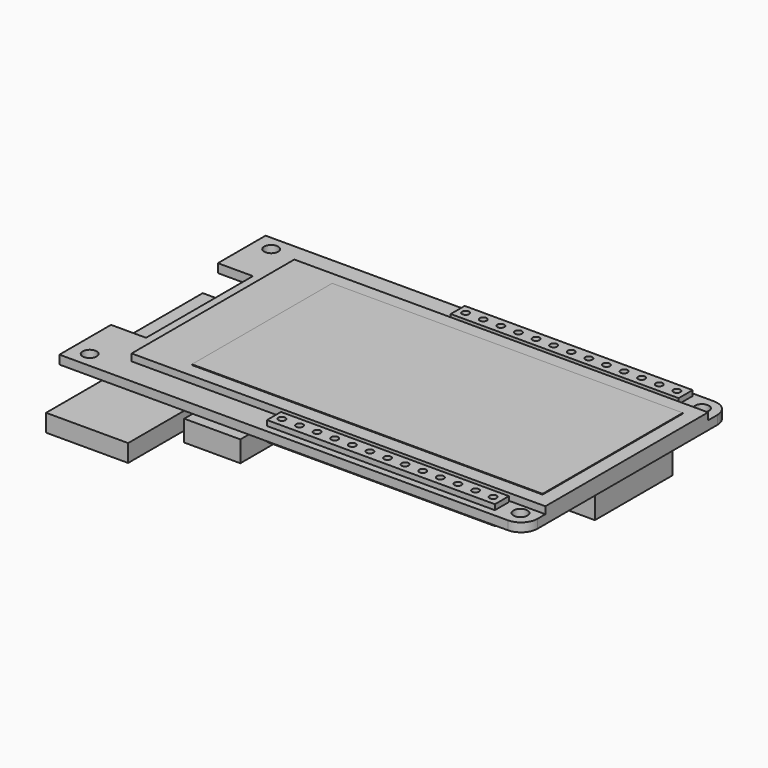
from build123d import *

# Parameters (mm, degrees)
SKETCH_R          = 1
PAD_DEPTH         = 1.25
SKETCH001_W       = 59
SKETCH001_H       = 29
PAD001_DEPTH      = 1
SKETCH002_W       = 50
SKETCH002_H       = 25
PAD002_DEPTH      = 0.1
SKETCH003_W       = 32.5
SKETCH003_H       = 2.5
SKETCH003_R       = 0.5
PAD003_DEPTH      = 0.75
PAD003_DEPTH_BACK = 2
SKETCH004_W       = 11.7
SKETCH004_H       = 15.5
PAD004_DEPTH      = 2.5
SKETCH005_W       = 8
SKETCH005_H       = 5.7
PAD005_DEPTH      = 3
SKETCH006_W       = 5.3
SKETCH006_H       = 13.8
PAD006_DEPTH      = 3.5
SKETCH007_W       = 3
SKETCH007_H       = 3
SKETCH007_R       = 1
PAD007_DEPTH      = 1.5
PAD008_DEPTH      = 2
SKETCH009_W       = 9
SKETCH009_H       = 3.2
PAD009_DEPTH      = 3
SKETCH010_W       = 4
SKETCH010_H       = 1.5
POCKET_DEPTH      = 0.25
SKETCH011_W       = 1.5
SKETCH011_H       = 1.5
PAD010_DEPTH      = 2.25
SKETCH012_W       = 4.5
SKETCH012_H       = 17.6
PAD011_DEPTH      = 2.3
SKETCH013_W       = 12.4
SKETCH013_H       = 0.5
PAD012_DEPTH      = 4.5
PAD013_DEPTH      = 3.5


with BuildPart() as part:
    # Sketch → Pad (new body)
    with BuildSketch(Plane.XY):
        with BuildLine():
            Line((-35.65, 18.375), (28.3, 18.375))
            ThreePointArc((30.65, 16.025), (29.961701, 17.686701), (28.3, 18.375))
            Line((30.65, 16.025), (30.65, -16.025))
            ThreePointArc((28.3, -18.375), (29.961701, -17.686701), (30.65, -16.025))
            Line((28.3, -18.375), (-35.65, -18.375))
            Line((-35.65, -18.375), (-35.65, -9.175))
            Line((-30.65, -9.175), (-35.65, -9.175))
            Line((-30.65, 9.875), (-30.65, -9.175))
            Line((-35.65, 9.875), (-30.65, 9.875))
            Line((-35.65, 9.875), (-35.65, 18.375))
        make_face()
        with Locations((-33.13, 16.225)):
            Circle(SKETCH_R, mode=Mode.SUBTRACT)
        with Locations((-33.13, -16.125)):
            Circle(SKETCH_R, mode=Mode.SUBTRACT)
        with Locations((28.3, 16.225)):
            Circle(SKETCH_R, mode=Mode.SUBTRACT)
        with Locations((28.3, -16.125)):
            Circle(SKETCH_R, mode=Mode.SUBTRACT)
    extrude(amount=PAD_DEPTH)

    # Sketch001 (on Face16 of Pad) → Pad001 (join)
    with BuildSketch(Plane.XY.offset(1.25)):
        with Locations((1.15, -0.125)):
            Rectangle(SKETCH001_W, SKETCH001_H)
    extrude(amount=PAD001_DEPTH)

    # Sketch002 (on Face21 of Pad001) → Pad002 (join)
    with BuildSketch(Plane.XY.offset(2.25)):
        with Locations((3.65, -0.125)):
            Rectangle(SKETCH002_W, SKETCH002_H)
    extrude(amount=PAD002_DEPTH)

    # Sketch003 (on Face5 of Pad002) → Pad003 (join, two sides)
    with BuildSketch(Plane.XY.offset(1.25)) as pad003_sk:
        with Locations((9.4, 16.625)):
            Rectangle(SKETCH003_W, SKETCH003_H)
        with Locations((24.4, 16.625)):
            Circle(SKETCH003_R, mode=Mode.SUBTRACT)
        with Locations((21.89, 16.625)):
            Circle(SKETCH003_R, mode=Mode.SUBTRACT)
        with Locations((19.38, 16.625)):
            Circle(SKETCH003_R, mode=Mode.SUBTRACT)
        with Locations((16.87, 16.625)):
            Circle(SKETCH003_R, mode=Mode.SUBTRACT)
        with Locations((14.36, 16.625)):
            Circle(SKETCH003_R, mode=Mode.SUBTRACT)
        with Locations((11.85, 16.625)):
            Circle(SKETCH003_R, mode=Mode.SUBTRACT)
        with Locations((9.34, 16.625)):
            Circle(SKETCH003_R, mode=Mode.SUBTRACT)
        with Locations((6.83, 16.625)):
            Circle(SKETCH003_R, mode=Mode.SUBTRACT)
        with Locations((4.32, 16.625)):
            Circle(SKETCH003_R, mode=Mode.SUBTRACT)
        with Locations((1.81, 16.625)):
            Circle(SKETCH003_R, mode=Mode.SUBTRACT)
        with Locations((-0.7, 16.625)):
            Circle(SKETCH003_R, mode=Mode.SUBTRACT)
        with Locations((-3.21, 16.625)):
            Circle(SKETCH003_R, mode=Mode.SUBTRACT)
        with Locations((-5.72, 16.625)):
            Circle(SKETCH003_R, mode=Mode.SUBTRACT)
        with Locations((9.4, -16.125)):
            Rectangle(SKETCH003_W, SKETCH003_H)
        with Locations((24.4, -16.125)):
            Circle(SKETCH003_R, mode=Mode.SUBTRACT)
        with Locations((21.89, -16.125)):
            Circle(SKETCH003_R, mode=Mode.SUBTRACT)
        with Locations((19.38, -16.125)):
            Circle(SKETCH003_R, mode=Mode.SUBTRACT)
        with Locations((16.87, -16.125)):
            Circle(SKETCH003_R, mode=Mode.SUBTRACT)
        with Locations((14.36, -16.125)):
            Circle(SKETCH003_R, mode=Mode.SUBTRACT)
        with Locations((11.85, -16.125)):
            Circle(SKETCH003_R, mode=Mode.SUBTRACT)
        with Locations((9.34, -16.125)):
            Circle(SKETCH003_R, mode=Mode.SUBTRACT)
        with Locations((6.83, -16.125)):
            Circle(SKETCH003_R, mode=Mode.SUBTRACT)
        with Locations((4.32, -16.125)):
            Circle(SKETCH003_R, mode=Mode.SUBTRACT)
        with Locations((1.81, -16.125)):
            Circle(SKETCH003_R, mode=Mode.SUBTRACT)
        with Locations((-0.7, -16.125)):
            Circle(SKETCH003_R, mode=Mode.SUBTRACT)
        with Locations((-3.21, -16.125)):
            Circle(SKETCH003_R, mode=Mode.SUBTRACT)
        with Locations((-5.72, -16.125)):
            Circle(SKETCH003_R, mode=Mode.SUBTRACT)
    extrude(amount=PAD003_DEPTH)
    extrude(pad003_sk.sketch, amount=-PAD003_DEPTH_BACK)

    # Sketch004 (on Face4 of Pad003) → Pad004 (join)
    with BuildSketch(Plane(origin=(0, 0, 0), x_dir=(1, 0, 0), z_dir=(0, 0, -1))):
        with Locations((-23.7, 20.625)):
            Rectangle(SKETCH004_W, SKETCH004_H)
    extrude(amount=PAD004_DEPTH)

    # Sketch005 (on Face4 of Pad004) → Pad005 (join)
    with BuildSketch(Plane(origin=(0, 0, 0), x_dir=(1, 0, 0), z_dir=(0, 0, -1))):
        with Locations((-12.65, 17.025)):
            Rectangle(SKETCH005_W, SKETCH005_H)
    extrude(amount=PAD005_DEPTH)

    # Sketch006 (on Face4 of Pad005) → Pad006 (join)
    with BuildSketch(Plane(origin=(0, 0, 0), x_dir=(1, 0, 0), z_dir=(0, 0, -1))):
        with Locations((27.5, -1.725)):
            Rectangle(SKETCH006_W, SKETCH006_H)
    extrude(amount=PAD006_DEPTH)

    # Sketch007 (on Face4 of Pad006) → Pad007 (join)
    with BuildSketch(Plane(origin=(0, 0, 0), x_dir=(1, 0, 0), z_dir=(0, 0, -1))):
        with Locations((22.25, -12.775)):
            Rectangle(SKETCH007_W, SKETCH007_H)
        with Locations((22.25, -12.775)):
            Circle(SKETCH007_R, mode=Mode.SUBTRACT)
    extrude(amount=PAD007_DEPTH)

    # Sketch008 (on Face4 of Pad007) → Pad008 (join)
    with BuildSketch(Plane(origin=(0, 0, 0), x_dir=(1, 0, 0), z_dir=(0, 0, -1))):
        Polygon((-28.85, -16.175), (-24.35, -16.175), (-24.35, -18.375), (-25.6, -18.375), (-25.6, -19.375), (-27.6, -19.375), (-27.6, -18.375), (-28.85, -18.375), align=None)
        Polygon((-22.05, -16.175), (-17.55, -16.175), (-17.55, -18.375), (-18.8, -18.375), (-18.8, -19.375), (-20.8, -19.375), (-20.8, -18.375), (-22.05, -18.375), align=None)
    extrude(amount=PAD008_DEPTH)

    # Sketch009 (on Face4 of Pad008) → Pad009 (join)
    with BuildSketch(Plane(origin=(0, 0, 0), x_dir=(1, 0, 0), z_dir=(0, 0, -1))):
        with Locations((-12.15, -16.775)):
            Rectangle(SKETCH009_W, SKETCH009_H)
    extrude(amount=PAD009_DEPTH)

    # Sketch010 (on Face14 of Pad009) → Pocket (cut)
    with BuildSketch(Plane(origin=(0, 18.375, 0), x_dir=(-1, 0, 0), z_dir=(0, 1, 0))):
        with Locations((12.15, -1.5)):
            Rectangle(SKETCH010_W, SKETCH010_H)
    extrude(amount=-POCKET_DEPTH, mode=Mode.SUBTRACT)

    # Sketch011 (on Face93 of Pocket) → Pad010 (join)
    with BuildSketch(Plane(origin=(0, 18.125, 0), x_dir=(-1, 0, 0), z_dir=(0, 1, 0))):
        with Locations((10.9, -1.5)):
            Rectangle(SKETCH011_W, SKETCH011_H)
    extrude(amount=PAD010_DEPTH)

    # Sketch012 (on Face4 of Pad010) → Pad011 (join)
    with BuildSketch(Plane(origin=(0, 0, 0), x_dir=(1, 0, 0), z_dir=(0, 0, -1))):
        with Locations((-28.4, -0.35)):
            Rectangle(SKETCH012_W, SKETCH012_H)
    extrude(amount=PAD011_DEPTH)

    # Sketch013 (on Face69 of Pad011) → Pad012 (join)
    with BuildSketch(Plane(origin=(-30.65, 0, 0), x_dir=(0, -1, 0), z_dir=(-1, 0, 0))):
        with Locations((-0.35, -1.25)):
            Rectangle(SKETCH013_W, SKETCH013_H)
    extrude(amount=PAD012_DEPTH)

    # Sketch014 (on Face4 of Pad012) → Pad013 (join)
    with BuildSketch(Plane(origin=(0, 0, 0), x_dir=(1, 0, 0), z_dir=(0, 0, -1))):
        Polygon((-13.85, -4.975), (-12.6, -4.975), (-12.6, -6.975), (-7.6, -6.975), (-7.6, -4.975), (-6.35, -4.975), (-6.35, -9.975), (-13.85, -9.975), align=None)
    extrude(amount=PAD013_DEPTH)


solid = part.part
